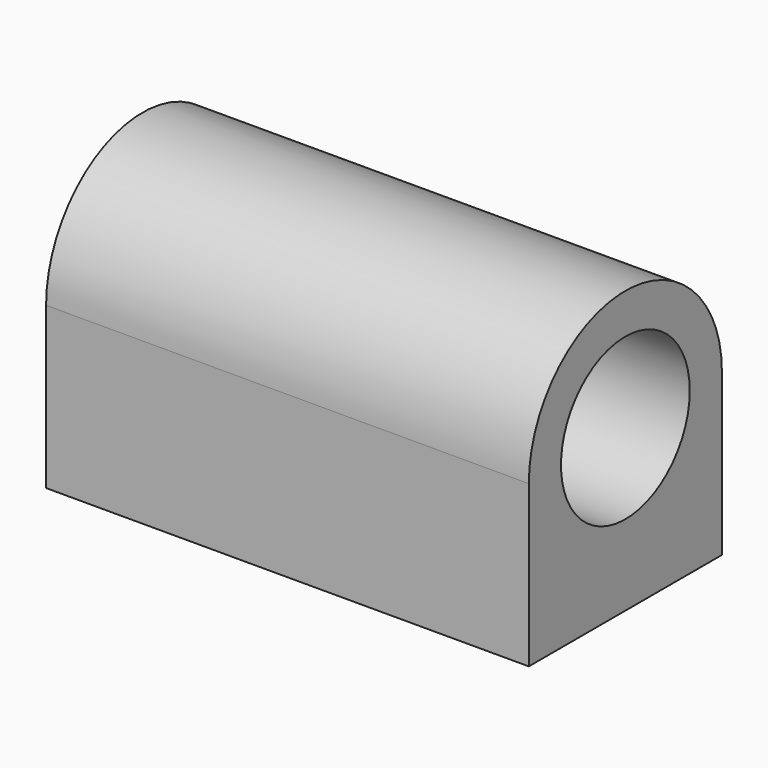
from build123d import *

# Parameters (mm, degrees)
F0_R     = 12.7
F1_DEPTH = 38.1
F2_R     = 1.651
F3_DEPTH = 12.7


with BuildPart() as f1:
    # F0 (on Right) → F1 (new body, symmetric)
    with BuildSketch(Plane.YZ):
        with BuildLine():
            Line((19.05, -25.4), (19.05, 0))
            ThreePointArc((19.05, 0), (0, 19.05), (-19.05, 0))
            Line((-19.05, 0), (-19.05, -25.4))
            Line((-19.05, -25.4), (19.05, -25.4))
        make_face()
        Circle(F0_R, mode=Mode.SUBTRACT)
    extrude(amount=F1_DEPTH, both=True)

    # F2 (on face) → F3 (cut)
    with BuildSketch(Plane(origin=(0, 0, -25.4), x_dir=(1, 0, 0), z_dir=(0, 0, -1))):
        with Locations((-31.75, 12.7)):
            Circle(F2_R)
        with Locations((-31.75, -12.7)):
            Circle(F2_R)
        with Locations((31.75, 12.7)):
            Circle(F2_R)
        with Locations((31.75, -12.7)):
            Circle(F2_R)
    extrude(amount=-F3_DEPTH, mode=Mode.SUBTRACT)


solid = f1.part
